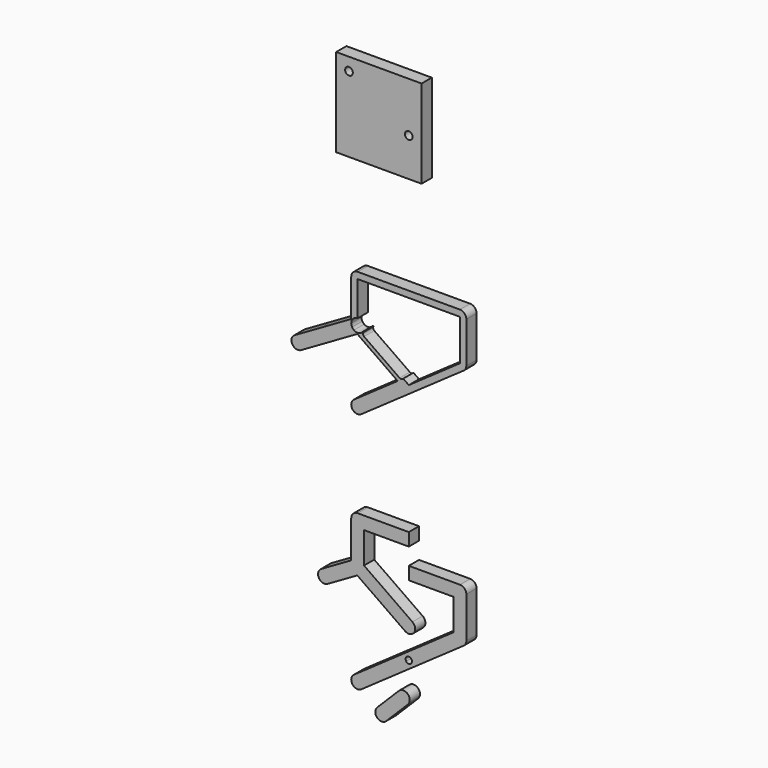
from build123d import *

# Parameters (mm, degrees)
F1_DEPTH = 5
F0_W     = 2.5
F0_H     = 2.5
F0_W_2   = 17.5
F0_W_3   = 33.3826859022
F0_H_2   = 34.5083015284
F0_R     = 1.5


with BuildPart() as f1:
    # F0 (on Front) → F1 (new body)
    with BuildSketch(Plane.XZ):
        with BuildLine():
            Line((0, 2.5), (0, 0))
            Line((0, 0), (17.5, 0))
            ThreePointArc((17.5, 0), (18.232233047, 1.767766953), (20, 2.5))
            Line((20, 2.5), (0, 2.5))
        make_face()
        with BuildLine():
            Line((-17.5, 0), (0, 0))
            Line((0, 0), (0, 2.5))
            Line((0, 2.5), (-20, 2.5))
            ThreePointArc((-20, 2.5), (-18.232233047, 1.767766953), (-17.5, 0))
        make_face()
        with BuildLine():
            ThreePointArc((20, 2.5), (18.232233047, 1.767766953), (17.5, 0))
            Line((17.5, 0), (20, 0))
            Line((20, 0), (20, -2.5))
            ThreePointArc((20, -2.5), (21.767766953, -1.767766953), (22.5, 0))
            ThreePointArc((22.5, 0), (21.767766953, 1.767766953), (20, 2.5))
        make_face()
        with BuildLine():
            Line((-20, 0), (-17.5, 0))
            ThreePointArc((-17.5, 0), (-18.232233047, 1.767766953), (-20, 2.5))
            ThreePointArc((-20, 2.5), (-21.767766953, 1.767766953), (-22.5, 0))
            ThreePointArc((-22.5, 0), (-21.767766953, -1.767766953), (-20, -2.5))
            Line((-20, -2.5), (-20, 0))
        make_face()
        with BuildLine():
            ThreePointArc((22.5, 0), (21.767766953, -1.767766953), (20, -2.5))
            Line((20, -2.5), (20, -13.4958492358))
            ThreePointArc((20, -13.4958492358), (21.767766953, -14.2280822828), (22.5, -15.9958492358))
            Line((22.5, -15.9958492358), (22.5, 0))
        make_face()
        with BuildLine():
            Line((-20, -13.4958492358), (-20, -2.5))
            ThreePointArc((-20, -2.5), (-21.767766953, -1.767766953), (-22.5, 0))
            Line((-22.5, 0), (-22.5, -14.5524735628))
            Line((-22.5, -14.5524735628), (-21.25, -13.8307857263))
            ThreePointArc((-21.25, -13.8307857263), (-20.6470476128, -13.5810346701), (-20, -13.4958492358))
        make_face()
        with BuildLine():
            ThreePointArc((22.5, -15.9958492358), (21.767766953, -14.2280822828), (20, -13.4958492358))
            Line((20, -13.4958492358), (20, -15.9958492358))
            Line((20, -15.9958492358), (17.9521198893, -17.4297903267))
            ThreePointArc((17.9521198893, -17.4297903267), (19.5658795558, -18.4578686183), (21.4339410909, -18.0437293465))
            ThreePointArc((21.4339410909, -18.0437293465), (22.2175270829, -17.1502207689), (22.5, -15.9958492358))
        make_face()
        with BuildLine():
            Line((-21.25, -13.8307857263), (-22.5, -14.5524735628))
            Line((-22.5, -14.5524735628), (-22.5, -15.9958492358))
            ThreePointArc((-22.5, -15.9958492358), (-22.1650635095, -14.7458492358), (-21.25, -13.8307857263))
        make_face()
        with BuildLine():
            Line((-22.5, -15.9958492358), (-22.5, -14.5524735628))
            Line((-22.5, -14.5524735628), (-34.2403810568, -21.3307857263))
            ThreePointArc((-34.2403810568, -21.3307857263), (-32.343333444, -21.0810346701), (-30.8253175473, -22.2458492358))
            Line((-30.8253175473, -22.2458492358), (-22.1650635095, -17.2458492358))
            ThreePointArc((-22.1650635095, -17.2458492358), (-22.4148145657, -16.6428968486), (-22.5, -15.9958492358))
        make_face()
        with BuildLine():
            Line((1.4339411547, -32.0478800661), (21.4339410909, -18.0437293465))
            ThreePointArc((21.4339410909, -18.0437293465), (19.5658795558, -18.4578686183), (17.9521198893, -17.4297903267))
            Line((17.9521198893, -17.4297903267), (2.0478801107, -28.5660589091))
            ThreePointArc((2.0478801107, -28.5660589091), (2.4620193893, -30.4341204058), (1.4339411547, -32.0478800661))
        make_face()
        with BuildLine():
            Line((0, -30), (-2.1793084945, -28.474031764))
            Line((-2.1793084945, -28.474031764), (-2.1838419664, -28.4772061352))
            ThreePointArc((-2.1838419664, -28.4772061352), (-2.4264235636, -28.7185294297), (-2.7361610753, -28.8639441388))
            Line((-2.7361610753, -28.8639441388), (-4.3586169891, -30))
            Line((-4.3586169891, -30), (-2.1793084945, -31.525968236))
            Line((-2.1793084945, -31.525968236), (0, -30))
        make_face()
        with BuildLine():
            ThreePointArc((-30.8253175473, -22.2458492358), (-32.343333444, -21.0810346701), (-34.2403810568, -21.3307857263))
            ThreePointArc((-34.2403810568, -21.3307857263), (-35.4051956225, -22.848801623), (-35.1554445662, -24.7458492358))
            Line((-35.1554445662, -24.7458492358), (-32.9903810568, -23.4958492358))
            Line((-32.9903810568, -23.4958492358), (-30.8253175473, -22.2458492358))
        make_face()
        with BuildLine():
            ThreePointArc((-35.1554445662, -24.7458492358), (-35.4051956225, -22.848801623), (-34.2403810568, -21.3307857263))
            Line((-34.2403810568, -21.3307857263), (-44.6326859022, -27.3307857263))
            ThreePointArc((-44.6326859022, -27.3307857263), (-45.5477494116, -30.7458492358), (-42.1326859022, -31.6609127453))
            Line((-42.1326859022, -31.6609127453), (-31.7403810568, -25.6609127453))
            ThreePointArc((-31.7403810568, -25.6609127453), (-33.6374286695, -25.9106638015), (-35.1554445662, -24.7458492358))
        make_face()
        with BuildLine():
            Line((-17.7447367972, -17.5750015311), (-17.9521198893, -17.4297903267))
            ThreePointArc((-17.9521198893, -17.4297903267), (-18.311024481, -17.8390425778), (-18.75, -18.1609127453))
            Line((-18.75, -18.1609127453), (-20.1292975746, -18.9572505713))
            Line((-20.1292975746, -18.9572505713), (-4.3586169891, -30))
            Line((-4.3586169891, -30), (-2.7361610753, -28.8639441388))
            ThreePointArc((-2.7361610753, -28.8639441388), (-3.1710867936, -28.8846333466), (-3.5735764364, -28.7185294297))
            Line((-3.5735764364, -28.7185294297), (-17.4991611893, -18.9677300117))
            ThreePointArc((-17.4991611893, -18.9677300117), (-17.9103925059, -18.3222261451), (-17.7447367972, -17.5750015311))
        make_face()
        with BuildLine():
            ThreePointArc((-1.4339410909, -32.0478801107), (3.89e-08, -32.5), (1.4339411547, -32.0478800661))
            ThreePointArc((1.4339411547, -32.0478800661), (2.4620193893, -30.4341204058), (2.0478801107, -28.5660589091))
            Line((2.0478801107, -28.5660589091), (0, -30))
            Line((0, -30), (-2.1793084945, -31.525968236))
            Line((-2.1793084945, -31.525968236), (-1.4339410909, -32.0478801107))
        make_face()
        with BuildLine():
            Line((-18.5660589091, -46.0520308749), (1.4339411547, -32.0478800661))
            ThreePointArc((1.4339411547, -32.0478800661), (3.89e-08, -32.5), (-1.4339410909, -32.0478801107))
            Line((-1.4339410909, -32.0478801107), (-2.1793084945, -31.525968236))
            Line((-2.1793084945, -31.525968236), (-4.3586169891, -30))
            Line((-4.3586169891, -30), (-21.4339410909, -41.9562706535))
            ThreePointArc((-21.4339410909, -41.9562706535), (-22.0478801107, -45.4380918551), (-18.5660589091, -46.0520308749))
        make_face()
        with BuildLine():
            ThreePointArc((-21.4339410909, -18.0437293465), (-21.843193342, -17.6848247548), (-22.1650635095, -17.2458492358))
            Line((-22.1650635095, -17.2458492358), (-30.8253175473, -22.2458492358))
            ThreePointArc((-30.8253175473, -22.2458492358), (-30.575566491, -24.1428968486), (-31.7403810568, -25.6609127453))
            Line((-31.7403810568, -25.6609127453), (-20.1292975746, -18.9572505713))
            Line((-20.1292975746, -18.9572505713), (-21.4339410909, -18.0437293465))
        make_face()
        with BuildLine():
            Line((-32.9903810568, -23.4958492358), (-35.1554445662, -24.7458492358))
            ThreePointArc((-35.1554445662, -24.7458492358), (-33.6374286695, -25.9106638015), (-31.7403810568, -25.6609127453))
            ThreePointArc((-31.7403810568, -25.6609127453), (-30.575566491, -24.1428968486), (-30.8253175473, -22.2458492358))
            Line((-30.8253175473, -22.2458492358), (-32.9903810568, -23.4958492358))
        make_face()
        with BuildLine():
            Line((-20.1292975746, -18.9572505713), (-18.75, -18.1609127453))
            ThreePointArc((-18.75, -18.1609127453), (-20.1090484684, -18.4934697898), (-21.4339410909, -18.0437293465))
            Line((-21.4339410909, -18.0437293465), (-20.1292975746, -18.9572505713))
        make_face()
    extrude(amount=F1_DEPTH)


with BuildPart() as f1b:
    # F0 (on Front) → F1, piece 2 (new body)
    with BuildSketch(Plane.XZ):
        with BuildLine():
            ThreePointArc((-17.5, -99.0884940465), (-17.6157076231, -99.8402585452), (-17.9521198893, -100.5224351374))
            ThreePointArc((-17.9521198893, -100.5224351374), (-18.311024481, -100.9316873885), (-18.75, -101.2535575559))
            Line((-18.75, -101.2535575559), (-20.1292975746, -102.049895382))
            Line((-20.1292975746, -102.049895382), (-1.4339410909, -115.1405249214))
            ThreePointArc((-1.4339410909, -115.1405249214), (2.0478801107, -114.5265859016), (1.4339410909, -111.0447647))
            Line((1.4339410909, -111.0447647), (-17.5, -97.7870764201))
            Line((-17.5, -97.7870764201), (-17.5, -99.0884940465))
        make_face()
        with BuildLine():
            ThreePointArc((-18.5660589091, -97.0406139358), (-17.7824729171, -97.9341225134), (-17.5, -99.0884940465))
            Line((-17.5, -99.0884940465), (-17.5, -97.7870764201))
            Line((-17.5, -97.7870764201), (-18.5660589091, -97.0406139358))
        make_face()
        with BuildLine():
            Line((-20.1292975746, -102.049895382), (-18.75, -101.2535575559))
            ThreePointArc((-18.75, -101.2535575559), (-20.1090484684, -101.5861146004), (-21.4339410909, -101.1363741572))
            Line((-21.4339410909, -101.1363741572), (-20.1292975746, -102.049895382))
        make_face()
        with BuildLine():
            ThreePointArc((-21.25, -96.923430537), (-20.6470476128, -96.6736794808), (-20, -96.5884940465))
            Line((-20, -96.5884940465), (-20, -85.5926448107))
            ThreePointArc((-20, -85.5926448107), (-21.767766953, -84.8604117636), (-22.5, -83.0926448107))
            Line((-22.5, -83.0926448107), (-22.5, -97.6451183735))
            Line((-22.5, -97.6451183735), (-21.25, -96.923430537))
        make_face()
        with BuildLine():
            Line((-20, -85.5926448107), (-20, -96.5884940465))
            ThreePointArc((-20, -96.5884940465), (-19.2482355012, -96.7042016696), (-18.5660589091, -97.0406139358))
            Line((-18.5660589091, -97.0406139358), (-17.5, -97.7870764201))
            Line((-17.5, -97.7870764201), (-17.5, -85.5926448107))
            Line((-17.5, -85.5926448107), (-20, -85.5926448107))
        make_face()
        with BuildLine():
            ThreePointArc((-21.4339410909, -101.1363741572), (-21.843193342, -100.7774695655), (-22.1650635095, -100.3384940465))
            ThreePointArc((-22.1650635095, -100.3384940465), (-22.4148145657, -99.7355416592), (-22.5, -99.0884940465))
            Line((-22.5, -99.0884940465), (-22.5, -97.6451183735))
            Line((-22.5, -97.6451183735), (-34.2403810568, -104.423430537))
            ThreePointArc((-34.2403810568, -104.423430537), (-35.1554445662, -107.8384940465), (-31.7403810568, -108.7535575559))
            Line((-31.7403810568, -108.7535575559), (-20.1292975746, -102.049895382))
            Line((-20.1292975746, -102.049895382), (-21.4339410909, -101.1363741572))
        make_face()
        with BuildLine():
            ThreePointArc((-22.5, -83.0926448107), (-21.767766953, -84.8604117636), (-20, -85.5926448107))
            Line((-20, -85.5926448107), (-20, -83.0926448107))
            Line((-20, -83.0926448107), (-17.5, -83.0926448107))
            ThreePointArc((-17.5, -83.0926448107), (-18.232233047, -81.3248778577), (-20, -80.5926448107))
            ThreePointArc((-20, -80.5926448107), (-21.767766953, -81.3248778577), (-22.5, -83.0926448107))
        make_face()
        with Locations((-18.75, -84.3426448107)):
            Rectangle(F0_W, F0_H)
        with BuildLine():
            ThreePointArc((-22.5, -99.0884940465), (-22.1650635095, -97.8384940465), (-21.25, -96.923430537))
            Line((-21.25, -96.923430537), (-22.5, -97.6451183735))
            Line((-22.5, -97.6451183735), (-22.5, -99.0884940465))
        make_face()
        with Locations((-8.75, -84.3426448107)):
            Rectangle(F0_W_2, F0_H)
        with BuildLine():
            ThreePointArc((-20, -80.5926448107), (-18.232233047, -81.3248778577), (-17.5, -83.0926448107))
            Line((-17.5, -83.0926448107), (0, -83.0926448107))
            Line((0, -83.0926448107), (0, -80.5926448107))
            Line((0, -80.5926448107), (-20, -80.5926448107))
        make_face()
        with BuildLine():
            ThreePointArc((-18.75, -101.2535575559), (-18.311024481, -100.9316873885), (-17.9521198893, -100.5224351374))
            Line((-17.9521198893, -100.5224351374), (-20, -99.0884940465))
            Line((-20, -99.0884940465), (-22.1650635095, -100.3384940465))
            ThreePointArc((-22.1650635095, -100.3384940465), (-21.843193342, -100.7774695655), (-21.4339410909, -101.1363741572))
            ThreePointArc((-21.4339410909, -101.1363741572), (-20.1090484684, -101.5861146004), (-18.75, -101.2535575559))
        make_face()
        with BuildLine():
            Line((-22.1650635095, -100.3384940465), (-20, -99.0884940465))
            Line((-20, -99.0884940465), (-20, -96.5884940465))
            ThreePointArc((-20, -96.5884940465), (-20.6470476128, -96.6736794808), (-21.25, -96.923430537))
            ThreePointArc((-21.25, -96.923430537), (-22.1650635095, -97.8384940465), (-22.5, -99.0884940465))
            ThreePointArc((-22.5, -99.0884940465), (-22.4148145657, -99.7355416592), (-22.1650635095, -100.3384940465))
        make_face()
        with BuildLine():
            Line((-20, -99.0884940465), (-17.9521198893, -100.5224351374))
            ThreePointArc((-17.9521198893, -100.5224351374), (-17.6157076231, -99.8402585452), (-17.5, -99.0884940465))
            ThreePointArc((-17.5, -99.0884940465), (-17.7824729171, -97.9341225134), (-18.5660589091, -97.0406139358))
            ThreePointArc((-18.5660589091, -97.0406139358), (-19.2482355012, -96.7042016696), (-20, -96.5884940465))
            Line((-20, -96.5884940465), (-20, -99.0884940465))
        make_face()
    extrude(amount=F1_DEPTH)


with BuildPart() as f1c:
    # F0 (on Front) → F1, piece 3 (new body)
    with BuildSketch(Plane.XZ):
        with BuildLine():
            Line((0, -92.1926623583), (0, -94.6926623583))
            Line((0, -94.6926623583), (17.5, -94.6926623583))
            ThreePointArc((17.5, -94.6926623583), (18.232233047, -92.9248954053), (20, -92.1926623583))
            Line((20, -92.1926623583), (0, -92.1926623583))
        make_face()
        with Locations((8.75, -95.9426623583)):
            Rectangle(F0_W_2, F0_H)
        with BuildLine():
            ThreePointArc((20, -92.1926623583), (18.232233047, -92.9248954053), (17.5, -94.6926623583))
            Line((17.5, -94.6926623583), (20, -94.6926623583))
            Line((20, -94.6926623583), (20, -97.1926623583))
            ThreePointArc((20, -97.1926623583), (21.767766953, -96.4604293113), (22.5, -94.6926623583))
            ThreePointArc((22.5, -94.6926623583), (21.767766953, -92.9248954053), (20, -92.1926623583))
        make_face()
        with Locations((18.75, -95.9426623583)):
            Rectangle(F0_W, F0_H)
        with BuildLine():
            Line((20, -97.1926623583), (17.5, -97.1926623583))
            Line((17.5, -97.1926623583), (17.5, -109.3870939677))
            Line((17.5, -109.3870939677), (18.5660589091, -108.6406314834))
            ThreePointArc((18.5660589091, -108.6406314834), (19.2482355012, -108.3042192172), (20, -108.1885115941))
            Line((20, -108.1885115941), (20, -97.1926623583))
        make_face()
        with BuildLine():
            ThreePointArc((22.5, -94.6926623583), (21.767766953, -96.4604293113), (20, -97.1926623583))
            Line((20, -97.1926623583), (20, -108.1885115941))
            ThreePointArc((20, -108.1885115941), (21.767766953, -108.9207446411), (22.5, -110.6885115941))
            Line((22.5, -110.6885115941), (22.5, -94.6926623583))
        make_face()
        with BuildLine():
            Line((17.5, -110.6885115941), (17.5, -109.3870939677))
            Line((17.5, -109.3870939677), (-21.4339410909, -136.6489330118))
            ThreePointArc((-21.4339410909, -136.6489330118), (-22.0478801107, -140.1307542134), (-18.5660589091, -140.7446932332))
            Line((-18.5660589091, -140.7446932332), (21.4339410909, -112.7363917048))
            ThreePointArc((21.4339410909, -112.7363917048), (19.5658795558, -113.1505309766), (17.9521198893, -112.122452685))
            ThreePointArc((17.9521198893, -112.122452685), (17.6157076231, -111.4402760929), (17.5, -110.6885115941))
        make_face()
        with BuildLine():
            ThreePointArc((-1.0239400554, -125.4096329037), (-0.7169705454, -123.6687223029), (1.0239400554, -123.9756918128))
            ThreePointArc((1.0239400554, -123.9756918128), (1.1921461884, -124.3167801089), (1.25, -124.6926623583))
            ThreePointArc((1.25, -124.6926623583), (0.3758822494, -125.8848085467), (-1.0239400554, -125.4096329037))
        make_face(mode=Mode.SUBTRACT)
        with BuildLine():
            Line((18.5660589091, -108.6406314834), (17.5, -109.3870939677))
            Line((17.5, -109.3870939677), (17.5, -110.6885115941))
            ThreePointArc((17.5, -110.6885115941), (17.6157076231, -111.4402760929), (17.9521198893, -112.122452685))
            Line((17.9521198893, -112.122452685), (20, -110.6885115941))
            Line((20, -110.6885115941), (20, -108.1885115941))
            ThreePointArc((20, -108.1885115941), (19.2482355012, -108.3042192172), (18.5660589091, -108.6406314834))
        make_face()
        with BuildLine():
            ThreePointArc((22.5, -110.6885115941), (21.767766953, -108.9207446411), (20, -108.1885115941))
            Line((20, -108.1885115941), (20, -110.6885115941))
            Line((20, -110.6885115941), (17.9521198893, -112.122452685))
            ThreePointArc((17.9521198893, -112.122452685), (19.5658795558, -113.1505309766), (21.4339410909, -112.7363917048))
            ThreePointArc((21.4339410909, -112.7363917048), (22.2175270829, -111.8428831272), (22.5, -110.6885115941))
        make_face()
    extrude(amount=F1_DEPTH)


with BuildPart() as f1d:
    # F0 (on Front) → F1, piece 4 (new body)
    with BuildSketch(Plane.XZ):
        with BuildLine():
            ThreePointArc((-0.3535533906, -140.0337104569), (-0.3535533906, -136.498176551), (-3.8890872965, -136.498176551))
            Line((-3.8890872965, -136.498176551), (-12.3743686708, -144.9834579252))
            ThreePointArc((-12.3743686708, -144.9834579252), (-12.3743686708, -148.5189918311), (-8.8388347648, -148.5189918311))
            Line((-8.8388347648, -148.5189918311), (-0.3535533906, -140.0337104569))
        make_face()
    extrude(amount=F1_DEPTH)


with BuildPart() as f1e:
    # F0 (on Front) → F1, piece 5 (new body)
    with BuildSketch(Plane.XZ):
        with Locations((-11.6913429511, 58.1760629575)):
            Rectangle(F0_W_3, F0_H_2)
        with Locations((-23.3826859022, 70.4302137217)):
            Circle(F0_R, mode=Mode.SUBTRACT)
        with Locations((0, 55.9219121933)):
            Circle(F0_R, mode=Mode.SUBTRACT)
    extrude(amount=F1_DEPTH)


solid = Compound([f1.part, f1b.part, f1c.part, f1d.part, f1e.part])
